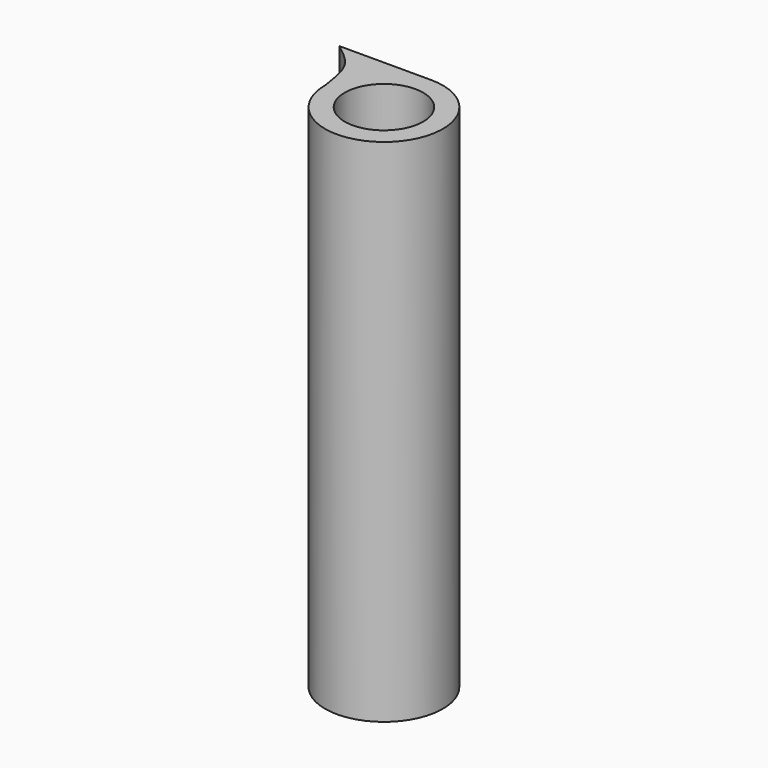
from build123d import *

# Parameters (mm, degrees)
F0_R     = 1
F1_DEPTH = 13


with BuildPart() as f1:
    # F0 (on Top) → F1 (new body)
    with BuildSketch(Plane.XY):
        with BuildLine():
            add(Edge.make_bspline(
                [(-2.3347819224, 1.5), (-2.1508585648, 1.3565082639), (-1.81425597, 1.0939005597), (-1.6023326906, 0.6729244892), (-1.536364652, 0.2391285198), (-1.5, 0)],
                knots=[0, 0, 0, 0, 0.3508963145, 0.6421838504, 1, 1, 1, 1], degree=3))
            ThreePointArc((-1.5, 0), (1.0606601718, -1.0606601718), (0, 1.5))
            Line((0, 1.5), (-2.3347819224, 1.5))
        make_face()
        Circle(F0_R, mode=Mode.SUBTRACT)
    extrude(amount=F1_DEPTH)


solid = f1.part
